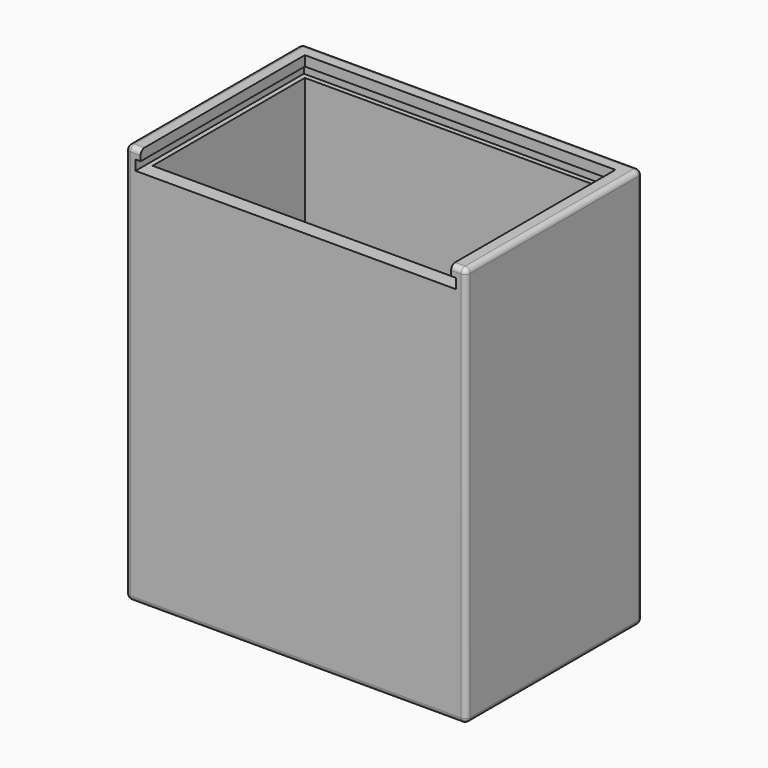
from build123d import *

# Parameters (mm, degrees)
SKETCH_W        = 34
SKETCH_H        = 22
PAD_DEPTH       = 40
SKETCH001_W     = 31
SKETCH001_H     = 19
POCKET_DEPTH    = 38.5
SKETCH002_R     = 2.7
SKETCH002_W     = 7
SKETCH002_H     = 9
POCKET001_DEPTH = 40.001
SKETCH003_W     = 31
SKETCH003_H     = 2
POCKET002_DEPTH = 1.5
SKETCH004_W     = 21
SKETCH004_H     = 1
POCKET003_DEPTH = 0.5
SKETCH009_W     = 32
SKETCH009_H     = 1
POCKET007_DEPTH = 0.5
FILLET_R        = 0.5
FILLET001_R     = 0.5


with BuildPart() as part:
    # Sketch → Pad (new body)
    with BuildSketch(Plane.XY):
        Rectangle(SKETCH_W, SKETCH_H)
    extrude(amount=PAD_DEPTH)

    # Sketch001 (on Face6 of Pad) → Pocket (cut)
    with BuildSketch(Plane.XY.offset(40)):
        Rectangle(SKETCH001_W, SKETCH001_H)
    extrude(amount=-POCKET_DEPTH, mode=Mode.SUBTRACT)

    # Sketch002 (on Face4 of Pocket) → Pocket001 (cut, through all)
    with BuildSketch(Plane(origin=(0, 0, 0), x_dir=(1, 0, 0), z_dir=(0, 0, -1))):
        with Locations((-4, -6.4)):
            Circle(SKETCH002_R)
        with Locations((4.5, -1.9)):
            Rectangle(SKETCH002_W, SKETCH002_H)
    extrude(amount=-POCKET001_DEPTH, mode=Mode.SUBTRACT)

    # Sketch003 (on Face6 of Pocket001) → Pocket002 (cut)
    with BuildSketch(Plane.XZ.offset(11)):
        with Locations((0, 39)):
            Rectangle(SKETCH003_W, SKETCH003_H)
    extrude(amount=-POCKET002_DEPTH, mode=Mode.SUBTRACT)

    # Sketch004 (on Face16 of Pocket002) → Pocket003 (cut)
    with BuildSketch(Plane(origin=(15.5, 0, 0), x_dir=(0, -1, 0), z_dir=(-1, 0, 0))):
        with Locations((0.5, 38.5)):
            Rectangle(SKETCH004_W, SKETCH004_H)
    pocket003 = extrude(amount=-POCKET003_DEPTH, mode=Mode.SUBTRACT)

    # Mirrored: Pocket003 across YZ
    add(pocket003.mirror(Plane.YZ), mode=Mode.SUBTRACT)

    # Sketch009 (on Face14 of Mirrored) → Pocket007 (cut)
    with BuildSketch(Plane.XZ.offset(-9.5)):
        with Locations((0, 38.5)):
            Rectangle(SKETCH009_W, SKETCH009_H)
    extrude(amount=-POCKET007_DEPTH, mode=Mode.SUBTRACT)

    # Fillet
    fillet_edges = [part.edges().sort_by_distance(p)[0] for p in [
        (17, -11, 20),
        (17, 0, 0),
        (17, 11, 20),
        (0, 11, 0),
        (-17, 11, 20),
        (-17, 0, 0),
        (-17, -11, 20),
        (0, -11, 0),
    ]]
    fillet(fillet_edges, radius=FILLET_R)

    # Fillet001
    fillet001_edges = [part.edges().sort_by_distance(p)[0] for p in [
        (17, 0, 40),
        (0, 11, 40),
        (-17, 0, 40),
    ]]
    fillet(fillet001_edges, radius=FILLET001_R)


solid = part.part
